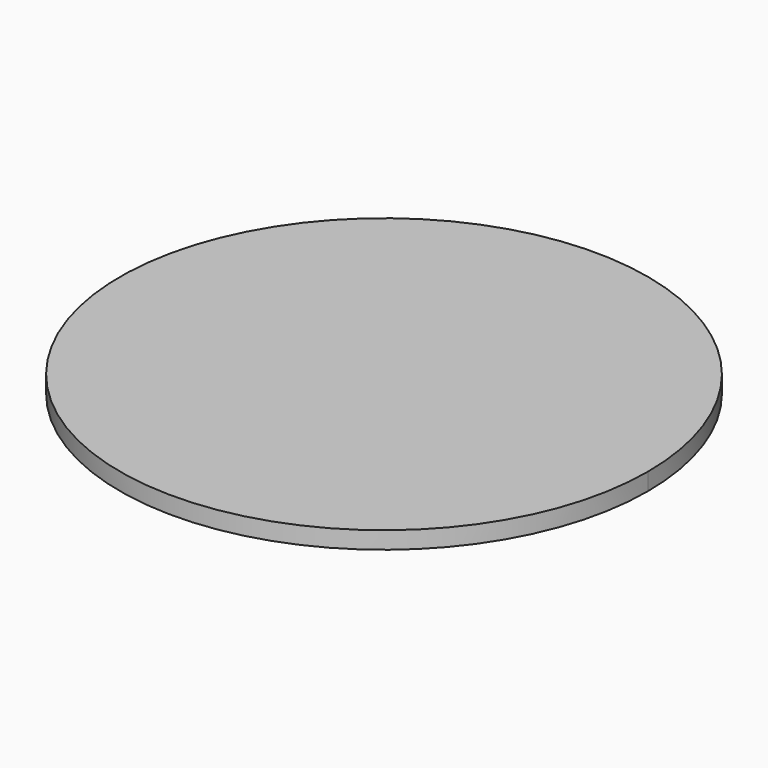
from build123d import *

# Parameters (mm, degrees)
F1_DEPTH = 3.2


with BuildPart() as f1:
    # F0 (on Top) → F1 (new body)
    with BuildSketch(Plane.XY):
        with BuildLine():
            ThreePointArc((6.916137, 48.491328), (-37.000057, -32.097315), (48.982057, 0))
            ThreePointArc((48.982057, 0), (37.000057, 32.097315), (6.916137, 48.491328))
        make_face()
    extrude(amount=F1_DEPTH)


solid = f1.part
